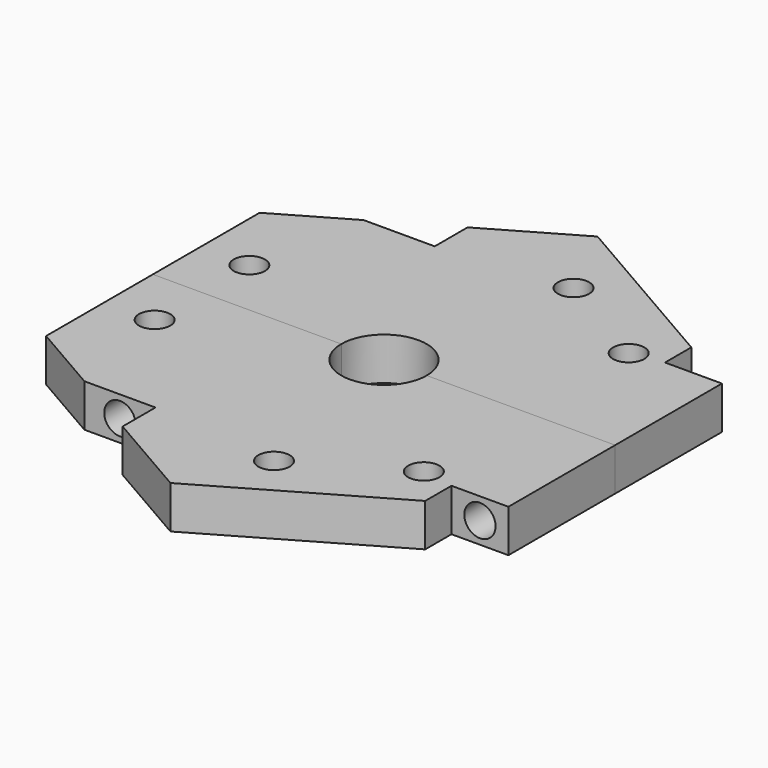
from build123d import *

# Parameters (mm, degrees)
F1_DEPTH = 6
F3_D     = 4.4
F5_D     = 4.4
F5_2_D   = 4.4


with BuildPart() as f1:
    # F0 (on Top) → F1 (new body)
    with BuildSketch(Plane.XY):
        with BuildLine():
            ThreePointArc((-6, 0), (0, 6), (6, 0))
            Line((6, 0), (32.5, 0))
            Line((32.5, 0), (32.5, 18.7638837487))
            Line((32.5, 18.7638837487), (24.5, 18.7638837487))
            Line((24.5, 18.7638837487), (24.5, 23.3826859022))
            Line((24.5, 23.3826859022), (0, 37.5277674973))
            Line((0, 37.5277674973), (-12.5, 30.3108891325))
            Line((-12.5, 30.3108891325), (-12.5, 24.5373864406))
            Line((-12.5, 24.5373864406), (-22.5, 24.5373864406))
            Line((-22.5, 24.5373864406), (-32.5, 18.7638837487))
            Line((-32.5, 18.7638837487), (-32.5, 0))
            Line((-32.5, 0), (-6, 0))
        make_face()
    extrude(amount=-F1_DEPTH)

    # F3 (through all)
    with Locations(Plane.XZ):
        with Locations((28.5, -3), (-17.5, -3)):
            Hole(F3_D / 2)


with BuildPart() as f4_1:
    # F4: instance of F1
    add(f1.part.mirror(Plane.XZ))

    # F5#2 (through all)
    with Locations(Plane.XY):
        with Locations((-25.5912923917, -8.32085), (-25.5912923917, 8.32085), (5.5895787148, 26.3231343269), (20.001713677, 18.0022843269), (20.001713677, -18.0022843269), (5.5895787148, -26.3231343269)):
            Hole(F5_2_D / 2)


with BuildPart() as f1_1:
    add(f1.part)

    # F5 (through all)
    with Locations(Plane.XY):
        with Locations((-25.5912923917, -8.32085), (-25.5912923917, 8.32085), (5.5895787148, 26.3231343269), (20.001713677, 18.0022843269), (20.001713677, -18.0022843269), (5.5895787148, -26.3231343269)):
            Hole(F5_D / 2)


solid = Compound([f4_1.part, f1_1.part])
